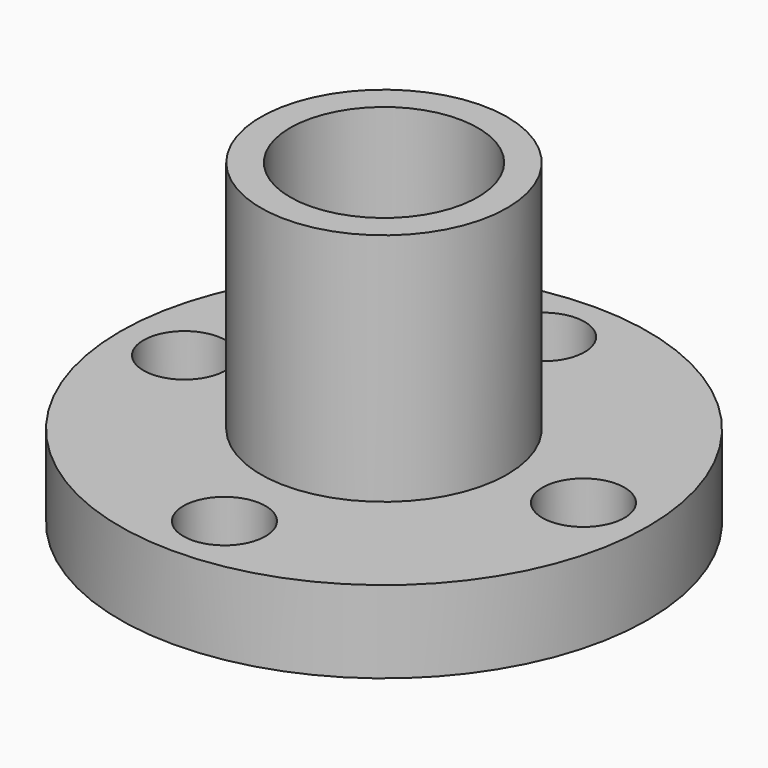
from build123d import *

# Parameters (mm, degrees)
F3_D = 8
F5_D = 3.5


with BuildPart() as f1:
    # F0 (on Front) → F1 (revolve)
    with BuildSketch(Plane.XZ):
        Polygon((11.25, -0.01), (11.25, 3.49), (5.25, 3.49), (5.25, 13.49), (0, 13.49), (0, -1.51), (5.25, -1.51), (5.25, -0.01), align=None)
    revolve(axis=Axis((0, 0, 5.99), (0, 0, 1)))

    # F3 (through all)
    with Locations(Plane(origin=(0, 0, -1.51), x_dir=(1, 0, 0), z_dir=(0, 0, -1))):
        with Locations((0, 0)):
            Hole(F3_D / 2)

    # F5 (through all)
    with Locations(Plane(origin=(0, 0, -0.01), x_dir=(1, 0, 0), z_dir=(0, 0, -1))):
        with Locations((0, 8.5), (8.5, 0), (0, -8.5), (-8.5, 0)):
            Hole(F5_D / 2)


solid = f1.part
